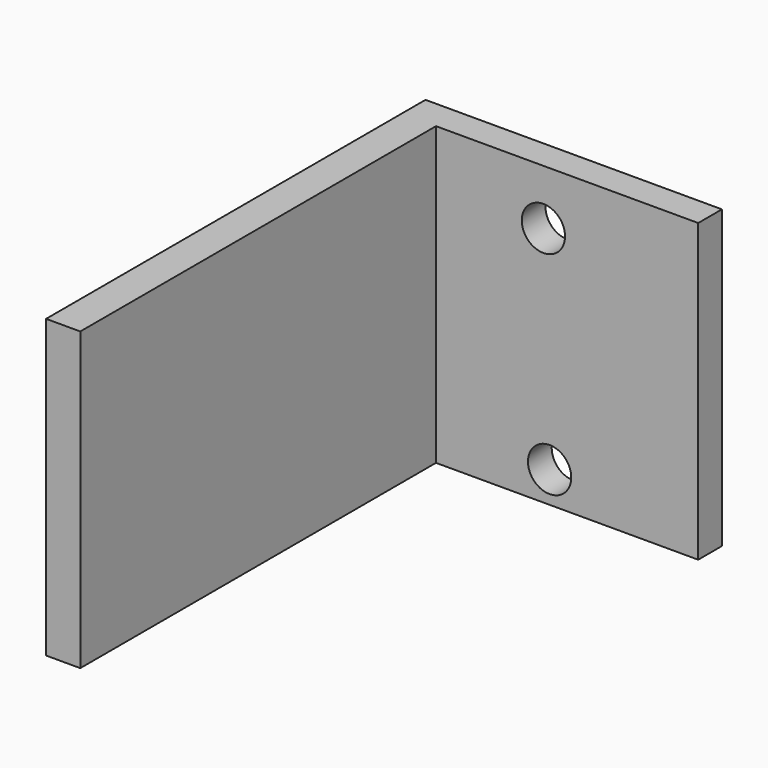
from build123d import *

# Parameters (mm, degrees)
F0_W      = 25.4
F0_H      = 24.1169882938
F1_DEPTH  = 2.54
F0_H_2    = 25.4
F2_W      = 2.9306858778
F2_H      = 25.4
F4_DEPTH  = 38.1
F3_W      = 2.9306774
F3_H      = 24.1169882938
F6_D      = 3.7084
F6_DEPTH  = 12.7
F6_TIP    = 1.1141157598
F8_D      = 3.7084
F8_DEPTH  = 12.7
F8_TIP    = 1.1141157598
F11_D     = 3.7084
F11_DEPTH = 12.7
F11_TIP   = 1.1141157598


with BuildPart() as f1:
    # F0 (on Front) → F1 (new body)
    with BuildSketch(Plane.XZ):
        with Locations((25.2723555684, -23.3813137747)):
            Rectangle(F0_W, F0_H)
    extrude(amount=F1_DEPTH)

    # F3 (on face) → F4, piece 2 (join)
    with BuildSketch(Plane.XZ.offset(2.54)):
        with Locations((36.5070168684, -23.3813137747)):
            Rectangle(F3_W, F3_H)
    extrude(amount=F4_DEPTH)

    # F8
    with Locations(Plane.XZ.offset(2.54)):
        with Locations((24.4828648865, -16.1586906761)):
            Hole(F8_D / 2, depth=F8_DEPTH)
            with Locations((0, 0, -(F8_DEPTH + F8_TIP / 2))):  # 118° drill point
                Cone(0, F8_D / 2, F8_TIP, mode=Mode.SUBTRACT)


with BuildPart() as f1b:
    # F0 (on Front) → F1, piece 2 (new body)
    with BuildSketch(Plane.XZ):
        with Locations((-56.0397792935, -31.5795045674)):
            Rectangle(F0_W, F0_H_2)
    extrude(amount=F1_DEPTH)

    # F2 (on face) → F4 (join)
    with BuildSketch(Plane.XZ.offset(2.54)):
        with Locations((-67.2744363546, -31.5795045674)):
            Rectangle(F2_W, F2_H)
    extrude(amount=F4_DEPTH)

    # F6
    with Locations(Plane.XZ.offset(2.54)):
        with Locations((-56.6043816507, -23.6014798284)):
            Hole(F6_D / 2, depth=F6_DEPTH)
            with Locations((0, 0, -(F6_DEPTH + F6_TIP / 2))):  # 118° drill point
                Cone(0, F6_D / 2, F6_TIP, mode=Mode.SUBTRACT)

    # F11
    with Locations(Plane.XZ.offset(2.54)):
        with Locations((-56.0724250972, -41.6174791753)):
            Hole(F11_D / 2, depth=F11_DEPTH)
            with Locations((0, 0, -(F11_DEPTH + F11_TIP / 2))):  # 118° drill point
                Cone(0, F11_D / 2, F11_TIP, mode=Mode.SUBTRACT)


solid = f1b.part
